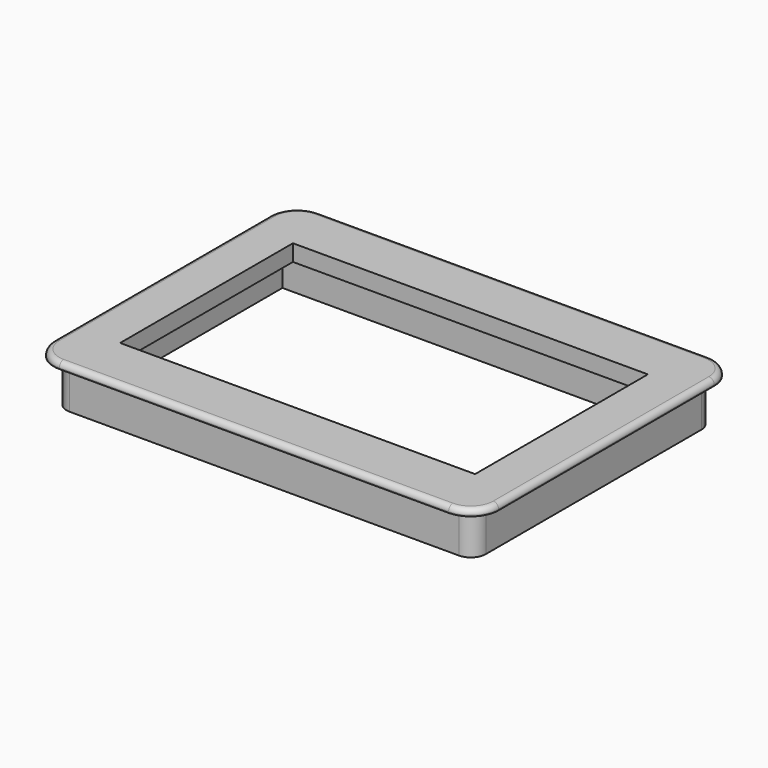
from build123d import *

# Parameters (mm, degrees)
PAD001_DEPTH    = 3
PAD002_DEPTH    = 20
FILLET_R        = 2.5
SKETCH005_W     = 166
SKETCH005_H     = 101
POCKET001_DEPTH = 23.001
SKETCH006_W     = 183
SKETCH006_H     = 110
POCKET002_DEPTH = 15.3
SKETCH007_R     = 1.6
POCKET003_DEPTH = 5


with BuildPart() as part:
    # Sketch002 → Pad001 (new body)
    with BuildSketch(Plane.XY):
        with BuildLine():
            Line((-91, 76), (91, 76))
            ThreePointArc((104, 63), (100.192388, 72.192388), (91, 76))
            Line((104, 63), (104, -63))
            ThreePointArc((91, -76), (100.192388, -72.192388), (104, -63))
            Line((91, -76), (-91, -76))
            ThreePointArc((-104, -63), (-100.192388, -72.192388), (-91, -76))
            Line((-104, -63), (-104, 63))
            ThreePointArc((-91, 76), (-100.192388, 72.192388), (-104, 63))
        make_face()
    extrude(amount=PAD001_DEPTH)

    # Sketch004 → Pad002 (join)
    with BuildSketch(Plane.XY):
        with BuildLine():
            Line((-91, 70), (91, 70))
            ThreePointArc((98, 63), (95.949747, 67.949747), (91, 70))
            Line((98, 63), (98, -63))
            ThreePointArc((91, -70), (95.949747, -67.949747), (98, -63))
            Line((91, -70), (-91, -70))
            ThreePointArc((-98, -63), (-95.949747, -67.949747), (-91, -70))
            Line((-98, -63), (-98, 63))
            ThreePointArc((-91, 70), (-95.949747, 67.949747), (-98, 63))
        make_face()
    extrude(amount=-PAD002_DEPTH)

    # Fillet
    fillet_edges = [part.edges().sort_by_distance(p)[0] for p in [
        (-104, 0, 3),
        (-100.192388, 72.192388, 3),
        (0, 76, 3),
        (100.192388, 72.192388, 3),
        (104, 0, 3),
        (100.192388, -72.192388, 3),
        (0, -76, 3),
        (-100.192388, -72.192388, 3),
    ]]
    fillet(fillet_edges, radius=FILLET_R)

    # Sketch005 (on Face19 of Pad002) → Pocket001 (cut, through all)
    with BuildSketch(Plane(origin=(0, 0, -20), x_dir=(1, 0, 0), z_dir=(0, 0, -1))):
        Rectangle(SKETCH005_W, SKETCH005_H)
    extrude(amount=-POCKET001_DEPTH, mode=Mode.SUBTRACT)

    # Sketch006 (on Face31 of Pocket001) → Pocket002 (cut)
    with BuildSketch(Plane(origin=(0, 0, -20), x_dir=(1, 0, 0), z_dir=(0, 0, -1))):
        Rectangle(SKETCH006_W, SKETCH006_H)
    extrude(amount=-POCKET002_DEPTH, mode=Mode.SUBTRACT)

    # Sketch007 (on Face32 of Pocket002) → Pocket003 (cut)
    with BuildSketch(Plane(origin=(0, 0, -4.7), x_dir=(1, 0, 0), z_dir=(0, 0, -1))):
        with Locations((-87.3, 50.8)):
            Circle(SKETCH007_R)
        with Locations((87.3, 50.8)):
            Circle(SKETCH007_R)
        with Locations((87.3, -50.8)):
            Circle(SKETCH007_R)
        with Locations((-87.3, -50.8)):
            Circle(SKETCH007_R)
    extrude(amount=-POCKET003_DEPTH, mode=Mode.SUBTRACT)


solid = part.part
